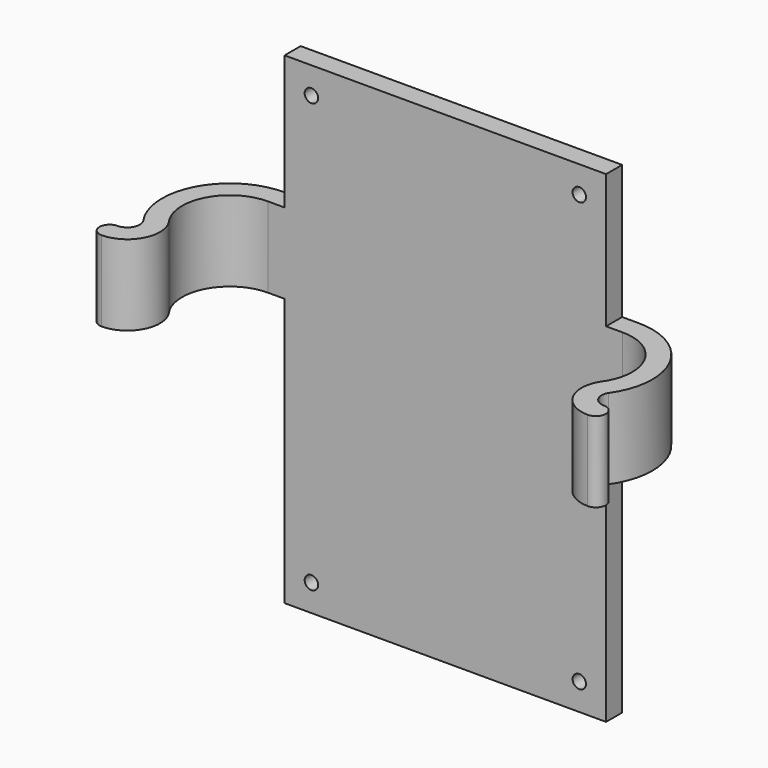
from build123d import *

# Parameters (mm, degrees)
F1_DEPTH = 19.05
F2_W     = 76.2
F2_H     = 31.75
F2_H_2   = 63.5
F3_DEPTH = 4.7625
F4_R     = 1.5875
F5_DEPTH = 4.7625


with BuildPart() as f1:
    # F0 (on Top) → F1 (new body)
    with BuildSketch(Plane.XY):
        with BuildLine():
            ThreePointArc((42.037, 11.303), (52.118297, 5.111287), (51.154651, -6.680288))
            ThreePointArc((51.154651, -6.680288), (50.904065, -14.490744), (57.600453, -18.518697))
            ThreePointArc((57.600453, -18.518697), (60.007424, -16.163448), (57.652175, -13.756478))
            ThreePointArc((57.652175, -13.756478), (55.11432, -12.262843), (55.124148, -9.318092))
            ThreePointArc((55.124148, -9.318092), (56.316357, 7.362081), (42.037, 16.0655))
            Line((42.037, 16.0655), (0, 16.0655))
            Line((0, 16.0655), (-42.037, 16.0655))
            ThreePointArc((-42.037, 16.0655), (-56.316357, 7.362081), (-55.124148, -9.318092))
            ThreePointArc((-55.124148, -9.318092), (-55.11432, -12.262843), (-57.652175, -13.756478))
            ThreePointArc((-57.652175, -13.756478), (-60.007424, -16.163448), (-57.600453, -18.518697))
            ThreePointArc((-57.600453, -18.518697), (-50.904065, -14.490744), (-51.154651, -6.680288))
            ThreePointArc((-51.154651, -6.680288), (-52.118297, 5.111287), (-42.037, 11.303))
            Line((-42.037, 11.303), (0, 11.303))
            Line((0, 11.303), (42.037, 11.303))
        make_face()
    extrude(amount=F1_DEPTH)

    # F2 (on face) → F3 (join)
    with BuildSketch(Plane(origin=(0, 16.0655, 0), x_dir=(-1, 0, 0), z_dir=(0, 1, 0))):
        with Locations((0, 34.925)):
            Rectangle(F2_W, F2_H)
        with Locations((0, -31.75)):
            Rectangle(F2_W, F2_H_2)
    extrude(amount=-F3_DEPTH)

    # F4 (on face) → F5 (cut)
    with BuildSketch(Plane(origin=(0, 16.0655, 0), x_dir=(-1, 0, 0), z_dir=(0, 1, 0))):
        with Locations((-31.75, 44.45)):
            Circle(F4_R)
        with Locations((31.75, 44.45)):
            Circle(F4_R)
        with Locations((31.75, -57.15)):
            Circle(F4_R)
        with Locations((-31.75, -57.15)):
            Circle(F4_R)
    extrude(amount=-F5_DEPTH, mode=Mode.SUBTRACT)


solid = f1.part
